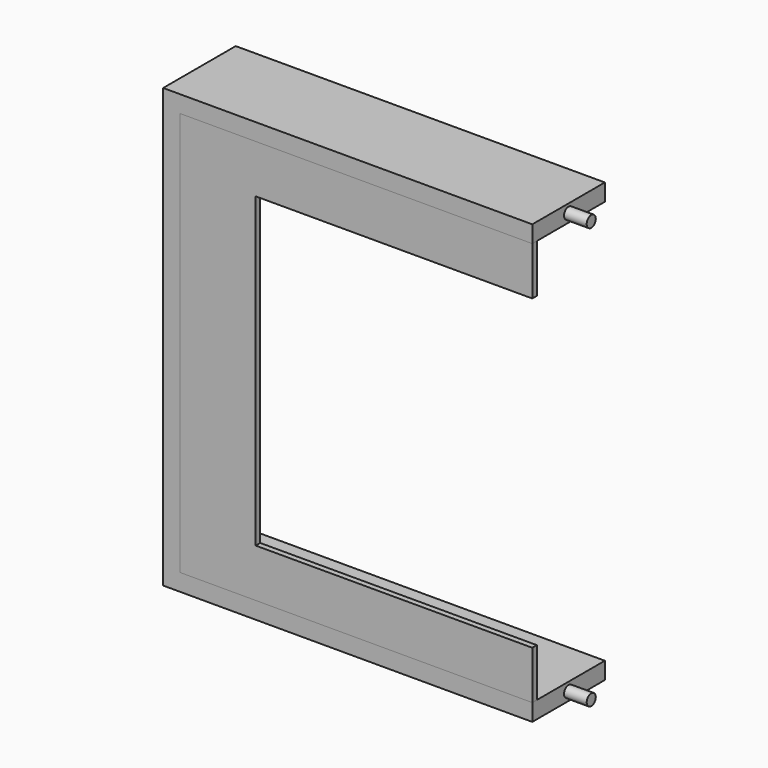
from build123d import *

# Parameters (mm, degrees)
F1_DEPTH = 1.5875
F2_DEPTH = 25.4
F3_R     = 1.5875
F4_DEPTH = 6.35
F5_R     = 1.5875
F6_DEPTH = 6.35


with BuildPart() as f1:
    # F0 (on Front) → F1 (new body)
    with BuildSketch(Plane.XZ):
        Polygon((-77.47, 43.053), (0, 43.053), (0, 54.991), (-97.028, 54.991), (-97.028, -54.991), (0, -54.991), (0, -43.053), (-77.47, -43.053), align=None)
        Polygon((-97.028, 54.991), (0, 54.991), (0, 56.5785), (-98.6155, 56.5785), (-98.6155, -56.5785), (0, -56.5785), (0, -54.991), (-97.028, -54.991), align=None)
    extrude(amount=-F1_DEPTH)


with BuildPart() as f2:
    # F0 (on Front) → F2 (new body)
    with BuildSketch(Plane.XZ):
        Polygon((-98.6155, 56.5785), (0, 56.5785), (0, 61.341), (-103.378, 61.341), (-103.378, -61.341), (0, -61.341), (0, -56.5785), (-98.6155, -56.5785), align=None)
    extrude(amount=-F2_DEPTH)

    # F3 (on face) → F4 (join)
    with BuildSketch(Plane.YZ):
        with Locations((12.7, -58.95975)):
            Circle(F3_R)
    extrude(amount=F4_DEPTH)

    # F5 (on face) → F6 (join)
    with BuildSketch(Plane.YZ):
        with Locations((12.7, 58.95975)):
            Circle(F5_R)
    extrude(amount=F6_DEPTH)


solid = Compound([f1.part, f2.part])
